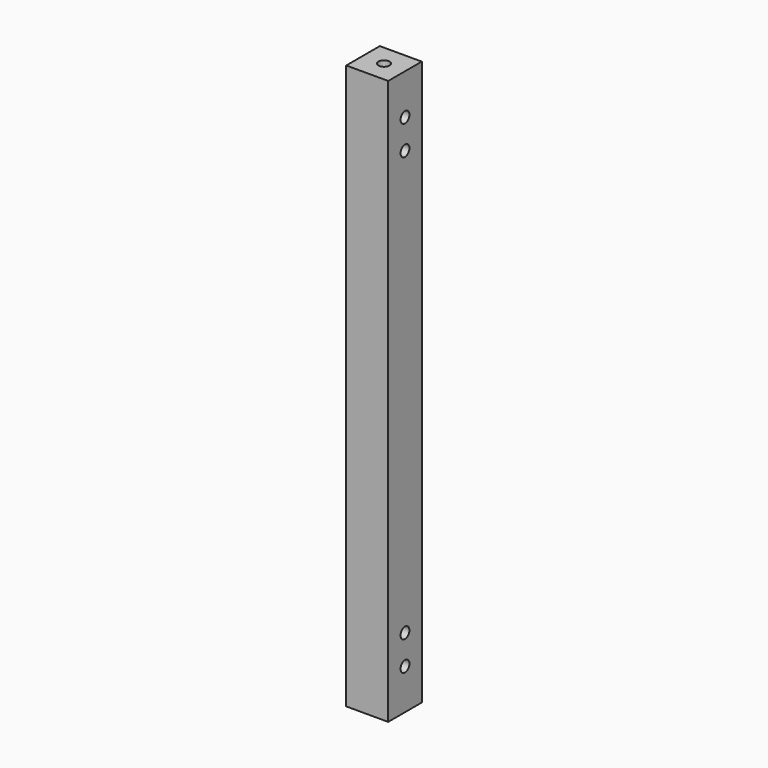
from build123d import *

# Parameters (mm, degrees)
SKETCH_W     = 11.4
SKETCH_H     = 11.4
SKETCH_R     = 1.5
PAD_DEPTH    = 153.35
SKETCH001_R  = 1.5
POCKET_DEPTH = 11.401


with BuildPart() as part:
    # Sketch → Pad (new body)
    with BuildSketch(Plane.XY):
        with Locations((5.7, 5.7)):
            Rectangle(SKETCH_W, SKETCH_H)
        with Locations((5.7, 5.7)):
            Circle(SKETCH_R, mode=Mode.SUBTRACT)
    extrude(amount=PAD_DEPTH)

    # Sketch001 → Pocket (cut, through all)
    with BuildSketch(Plane.YZ.offset(11.4)):
        with Locations((5.7, 142.35)):
            Circle(SKETCH001_R)
        with Locations((5.7, 134.35)):
            Circle(SKETCH001_R)
        with Locations((5.7, 19)):
            Circle(SKETCH001_R)
        with Locations((5.7, 11)):
            Circle(SKETCH001_R)
    extrude(amount=-POCKET_DEPTH, mode=Mode.SUBTRACT)


solid = part.part
